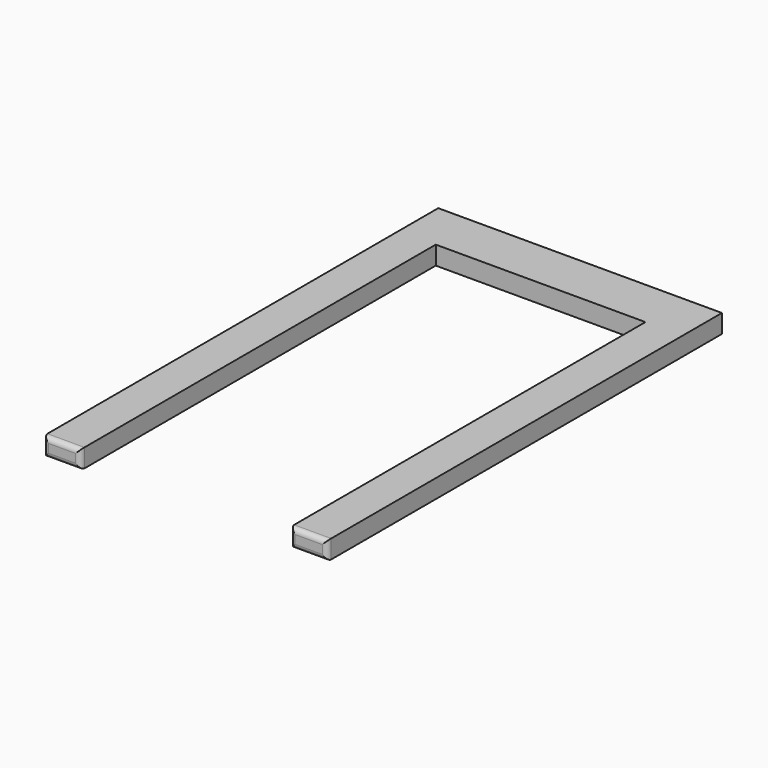
from build123d import *

# Parameters (mm, degrees)
BOX002_W     = 23
BOX002_H     = 4
BOX002_DEPTH = 1.5
BOX001_W     = 3
BOX001_H     = 36
BOX001_DEPTH = 1.5
BOX_W        = 3
BOX_H        = 36
BOX_DEPTH    = 1.5
FILLET006_R  = 0.4


with BuildPart() as cube002:
    # Box002 → Box002 (new body)
    with BuildSketch(Plane(origin=(-11.5, 18, 11.6), x_dir=(1, 0, 0), z_dir=(0, 0, 1))):
        with Locations((11.5, 2)):
            Rectangle(BOX002_W, BOX002_H)
    extrude(amount=BOX002_DEPTH)


with BuildPart() as cube001:
    # Box001 → Box001 (new body)
    with BuildSketch(Plane(origin=(8.5, -18, 11.6), x_dir=(1, 0, 0), z_dir=(0, 0, 1))):
        with Locations((1.5, 18)):
            Rectangle(BOX001_W, BOX001_H)
    extrude(amount=BOX001_DEPTH)


with BuildPart() as fillet006:
    # Box → Box (new body)
    with BuildSketch(Plane(origin=(-11.5, -18, 11.6), x_dir=(1, 0, 0), z_dir=(0, 0, 1))):
        with Locations((1.5, 18)):
            Rectangle(BOX_W, BOX_H)
    extrude(amount=BOX_DEPTH)

    # Fusion002: union Cube002, Cube001
    add(cube002.part)
    add(cube001.part)

    # Fillet006
    fillet006_edges = [fillet006.edges().sort_by_distance(p)[0] for p in [
        (-11.5, -18, 12.35),
        (-10, -18, 11.6),
        (-8.5, -18, 12.35),
        (-10, -18, 13.1),
        (10, -18, 13.1),
        (10, -18, 11.6),
        (8.5, -18, 12.35),
        (11.5, -18, 12.35),
    ]]
    fillet(fillet006_edges, radius=FILLET006_R)


solid = fillet006.part
